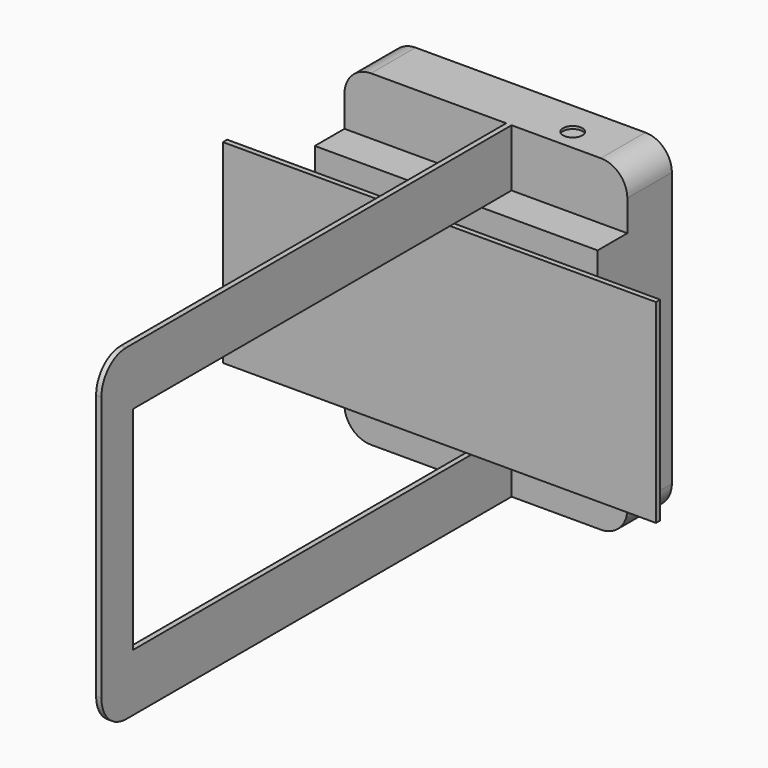
from build123d import *

# Parameters (mm, degrees)
F0_W      = 320
F0_H      = 370
F1_DEPTH  = 63
F2_R      = 20
F3_DEPTH  = 8
F4_R      = 30
F6_W      = 580
F6_H      = 370
F7_DEPTH  = 6
F8_W      = 535
F8_H      = 240
F9_DEPTH  = 189.001
F10_R     = 35
F11_W     = 320
F11_H     = 240
F12_DEPTH = 42
F13_R     = 11
F14_DEPTH = 3
F15_R     = 25
F15_W     = 4
F15_H     = 30
F15_W_2   = 10
F15_H_2   = 12
F16_DEPTH = 3
F15_W_3   = 35
F17_DEPTH = 2.5
F18_R     = 3
F19_DEPTH = 24
F21_W     = 490
F21_H     = 220
F22_DEPTH = 6


with BuildPart() as f1:
    # F0 (on Front) → F1 (new body)
    with BuildSketch(Plane.XZ):
        with Locations((160, 185)):
            Rectangle(F0_W, F0_H)
    extrude(amount=-F1_DEPTH)

    # F2 (on face) → F3 (join)
    with BuildSketch(Plane(origin=(0, 63, 0), x_dir=(-1, 0, 0), z_dir=(0, 1, 0))):
        with Locations((-285, 35)):
            Circle(F2_R)
        with Locations((-285, 335)):
            Circle(F2_R)
        with Locations((-35, 335)):
            Circle(F2_R)
        with Locations((-35, 35)):
            Circle(F2_R)
    extrude(amount=F3_DEPTH)

    # F4
    f4_edges = [f1.edges().sort_by_distance(p)[0] for p in [
        (0, 31.5, 0),
        (320, 31.5, 0),
        (320, 31.5, 370),
        (0, 31.5, 370),
    ]]
    fillet(f4_edges, radius=F4_R)

    # F6 (on line) → F7 (join)
    with BuildSketch(Plane.YZ.offset(189)):
        with Locations((-290, 185)):
            Rectangle(F6_W, F6_H)
    extrude(amount=-F7_DEPTH)

    # F8 (on face) → F9 (cut, through all)
    with BuildSketch(Plane.YZ.offset(189)):
        with Locations((-267.5, 185)):
            Rectangle(F8_W, F8_H)
    extrude(amount=-F9_DEPTH, mode=Mode.SUBTRACT)

    # F10
    f10_edges = [f1.edges().sort_by_distance(p)[0] for p in [
        (186, -580, 0),
        (186, -580, 370),
    ]]
    fillet(f10_edges, radius=F10_R)

    # F11 (on face) → F12 (join)
    with BuildSketch(Plane.XZ):
        with Locations((160, 185)):
            Rectangle(F11_W, F11_H)
    extrude(amount=F12_DEPTH)

    # F13 (on face) → F14 (cut)
    with BuildSketch(Plane.XY.offset(370)):
        with Locations((239, 24)):
            Circle(F13_R)
    extrude(amount=-F14_DEPTH, mode=Mode.SUBTRACT)

    # F15 (on face) → F16 (cut)
    with BuildSketch(Plane(origin=(0, 0, 0), x_dir=(0, -1, 0), z_dir=(-1, 0, 0))):
        with Locations((-32, 101)):
            Circle(F15_R)
        with Locations((-8, 265)):
            Rectangle(F15_W, F15_H)
        with Locations((-31, 265)):
            Rectangle(F15_W_2, F15_H_2)
    extrude(amount=-F16_DEPTH, mode=Mode.SUBTRACT)

    # F15 (on face) → F17 (join)
    with BuildSketch(Plane(origin=(0, 0, 0), x_dir=(0, -1, 0), z_dir=(-1, 0, 0))):
        with Locations((-30.5, 225)):
            Rectangle(F15_W_3, F15_H)
    extrude(amount=F17_DEPTH)

    # F18 (on face) → F19 (join)
    with BuildSketch(Plane.XZ.offset(42)):
        with Locations((30, 95)):
            Circle(F18_R)
        with Locations((30, 275)):
            Circle(F18_R)
        with Locations((290, 95)):
            Circle(F18_R)
        with Locations((290, 275)):
            Circle(F18_R)
    extrude(amount=F19_DEPTH)

    # F21 (on offset) → F22 (join)
    with BuildSketch(Plane.XZ.offset(66)):
        with Locations((165, 185)):
            Rectangle(F21_W, F21_H)
    extrude(amount=F22_DEPTH)


solid = f1.part
